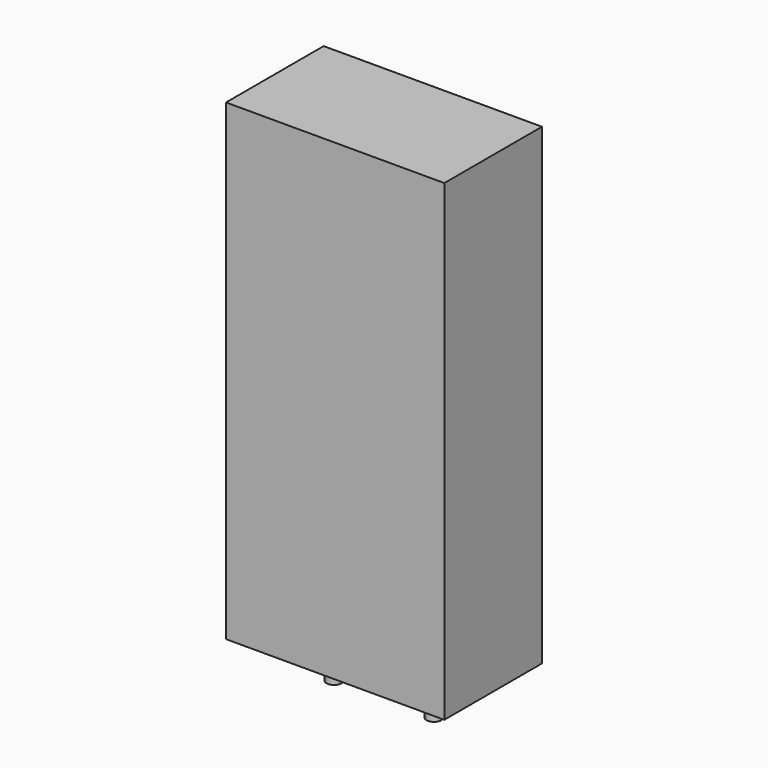
from build123d import *

# Parameters (mm, degrees)
SKETCH_W     = 16.1
SKETCH_H     = 9
PAD_DEPTH    = 34.85
SKETCH001_R  = 0.55
PAD001_DEPTH = 3.5


with BuildPart() as pad:
    # Sketch → Pad (new body)
    with BuildSketch(Plane.XY.offset(0.1)):
        with Locations((3.685, 0)):
            Rectangle(SKETCH_W, SKETCH_H)
    extrude(amount=PAD_DEPTH)


with BuildPart() as pad001:
    # Sketch001 → Pad001 (new body)
    with BuildSketch(Plane.XY.offset(0.5)):
        Circle(SKETCH001_R)
        with Locations((7.37, 0)):
            Circle(SKETCH001_R)
    extrude(amount=-PAD001_DEPTH)


solid = Compound([pad.part, pad001.part])
